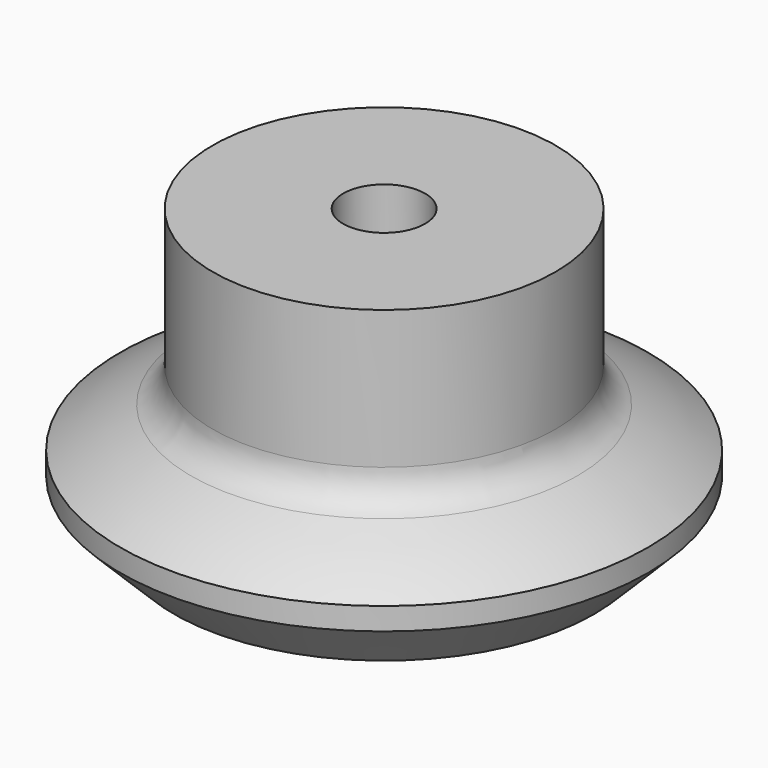
from build123d import *


with BuildPart() as f1:
    # F0 (on Front) → F1 (revolve)
    with BuildSketch(Plane.XZ):
        with BuildLine():
            Line((46, 35), (11, 35))
            Line((11, 35), (11, 19))
            Line((11, 19), (20, 19))
            Line((20, 19), (20, 0))
            Line((20, 0), (0, 0))
            Line((0, 0), (0, -25))
            ThreePointArc((0, -25), (29.515258, -29.454987), (56.400715, -42.42301))
            Line((56.400715, -42.42301), (70.823725, -28))
            Line((70.823725, -28), (70.823725, -22))
            ThreePointArc((70.823725, -22), (61.572329, -16.216507), (51.851852, -11.261768))
            ThreePointArc((51.851852, -11.261768), (47.589249, -7.571892), (46, -2.162709))
            Line((46, -2.162709), (46, 35))
        make_face()
    revolve(axis=Axis((0, 0, 17.5), (0, 0, -1)))


solid = f1.part
